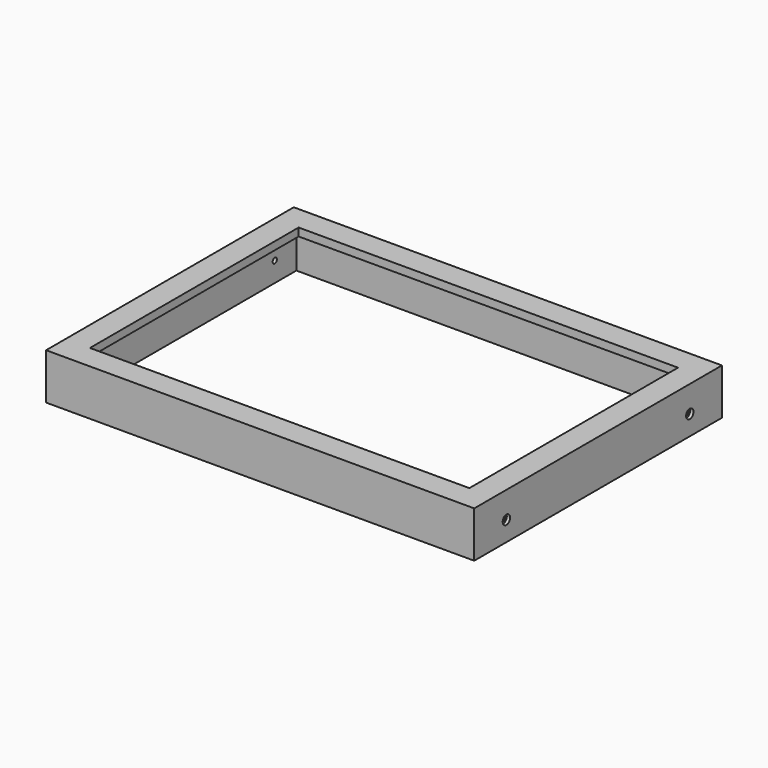
from build123d import *

# Parameters (mm, degrees)
CYLINDER025_R             = 3.5
CYLINDER025_DEPTH         = 3
CYLINDER025_PITCH_ANGLE   = 90
CYLINDER024_R             = 2
CYLINDER024_DEPTH         = 9
CYLINDER024_PITCH_ANGLE   = 90
ARRAY021_COUNT            = 2
ARRAY022_Y_COUNT          = 2
ARRAY022_Y_PITCH          = 174
BOX001_W                  = 305
BOX001_H                  = 215
BOX001_DEPTH              = 29
BOX_W                     = 325
BOX_H                     = 235
BOX_DEPTH                 = 29
BOX003_W                  = 288
BOX003_H                  = 198
BOX003_DEPTH              = 6
BOX002_W                  = 325
BOX002_H                  = 235
BOX002_DEPTH              = 6
FUSION017_PLACEMENT_ANGLE = 180


with BuildPart() as case_2_frame_cut002:
    # Cylinder025 → Cylinder025 (new body)
    with BuildSketch(Plane.XY):
        Circle(CYLINDER025_R)
    extrude(amount=CYLINDER025_DEPTH)


with BuildPart() as case_2_frame_cut002_1:
    # Cylinder025 pitch: moved
    add(case_2_frame_cut002.part.rotate(Axis((0, 0, 0), (0, 1, 0)), CYLINDER025_PITCH_ANGLE))


with BuildPart() as case_2_frame_cut002_2:
    # Cylinder025 placement: moved
    add(case_2_frame_cut002_1.part)


with BuildPart() as array022:
    # Cylinder024 → Cylinder024 (new body)
    with BuildSketch(Plane.XY):
        Circle(CYLINDER024_R)
    extrude(amount=CYLINDER024_DEPTH)


with BuildPart() as array022_1:
    # Cylinder024 pitch: moved
    add(array022.part.rotate(Axis((0, 0, 0), (0, 1, 0)), CYLINDER024_PITCH_ANGLE))


with BuildPart() as array022_2:
    # Cylinder024 placement: moved
    add(array022_1.part.moved(Location((3, 0, 0))))

    # Fusion: union CASE_2_frame_cut002
    add(case_2_frame_cut002_2.part)


with BuildPart() as array022_3:
    # Fusion placement: moved
    add(array022_2.part.moved(Location((-163, 87, -14))))

    # Array021: Array022 ×2 about axis
    array021_axis = Axis((0, 87, 0), (0, 0, 1))


with BuildPart() as array022_4:
    add(array022_3.part)
    for i in range(1, ARRAY021_COUNT):
        add(array022_3.part.rotate(array021_axis, i * 360 / ARRAY021_COUNT))

    # Array022 Y: Array022 ×2


with BuildPart() as array022_5:
    add(array022_4.part)
    with Locations(*[(0, -i * ARRAY022_Y_PITCH, 0) for i in range(1, ARRAY022_Y_COUNT)]):
        add(array022_4.part)


with BuildPart() as obj1:
    # Box001 → Box001 (new body)
    with BuildSketch(Plane(origin=(-152.5, -107.5, 0), x_dir=(1, 0, 0), z_dir=(0, 0, 1))):
        with Locations((152.5, 107.5)):
            Rectangle(BOX001_W, BOX001_H)
    extrude(amount=BOX001_DEPTH)


with BuildPart() as case_2_frame_l:
    # Box → Box (new body)
    with BuildSketch(Plane(origin=(-162.5, -117.5, 0), x_dir=(1, 0, 0), z_dir=(0, 0, 1))):
        with Locations((162.5, 117.5)):
            Rectangle(BOX_W, BOX_H)
    extrude(amount=BOX_DEPTH)

    # Cut004: cut obj1
    add(obj1.part, mode=Mode.SUBTRACT)


with BuildPart() as obj2:
    # Box003 → Box003 (new body)
    with BuildSketch(Plane(origin=(-144, -99, 0), x_dir=(1, 0, 0), z_dir=(0, 0, 1))):
        with Locations((144, 99)):
            Rectangle(BOX003_W, BOX003_H)
    extrude(amount=BOX003_DEPTH)


with BuildPart() as case_2_frame_front001:
    # Box002 → Box002 (new body)
    with BuildSketch(Plane(origin=(-162.5, -117.5, 0), x_dir=(1, 0, 0), z_dir=(0, 0, 1))):
        with Locations((162.5, 117.5)):
            Rectangle(BOX002_W, BOX002_H)
    extrude(amount=BOX002_DEPTH)

    # Cut003: cut obj2
    add(obj2.part, mode=Mode.SUBTRACT)


with BuildPart() as case_2_frame_front001_1:
    # Cut003 placement: moved
    add(case_2_frame_front001.part.moved(Location((0, 0, -6))))

    # Fusion017: union CASE_2_frame_l
    add(case_2_frame_l.part)


with BuildPart() as case_2_frame_front001_2:
    # Fusion017 placement: moved
    add(case_2_frame_front001_1.part.rotate(Axis((0, 0, 0), (0, 1, 0)), FUSION017_PLACEMENT_ANGLE))

    # Cut: cut Array022
    add(array022_5.part, mode=Mode.SUBTRACT)


solid = case_2_frame_front001_2.part
